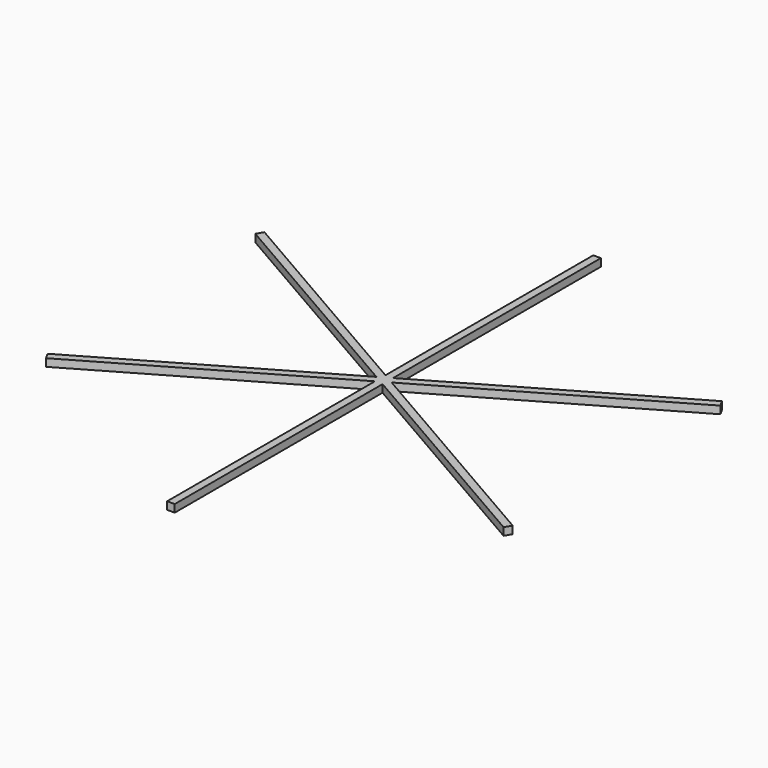
from build123d import *

# Parameters (mm, degrees)
F1_DEPTH = 10
F3_COUNT = 6


with BuildPart() as f1:
    # F0 (on Top) → F1 (new body)
    with BuildSketch(Plane.XY):
        Polygon((-5, 0), (0, 0), (5, 0), (5, 350), (0, 350), (-5, 350), align=None)
    extrude(amount=F1_DEPTH)

    # F3: F1 ×6 about axis
    f3_axis = Axis((0, 0, 5), (0, 0, 1))


with BuildPart() as f1_1:
    add(f1.part)
    for i in range(1, F3_COUNT):
        add(f1.part.rotate(f3_axis, i * 360 / F3_COUNT))


solid = f1_1.part
